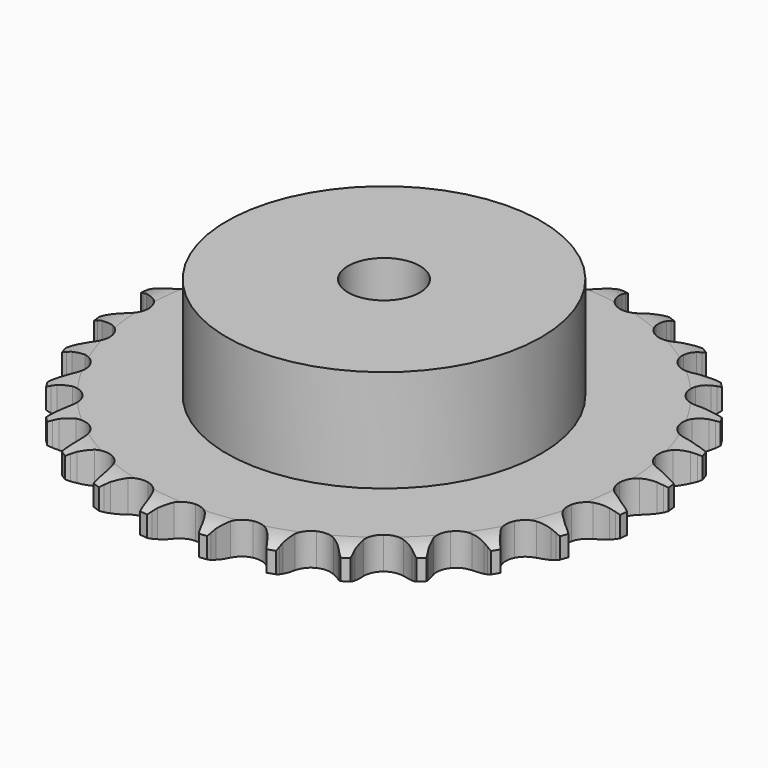
from build123d import *

# Parameters (mm, degrees)
PAD_DEPTH         = 7.2
SKETCH001_R       = 35
PAD001_DEPTH      = 30
SKETCH002_R       = 8
POCKET_DEPTH      = 0.001
POCKET_DEPTH_BACK = 30.001


with BuildPart() as part:
    # Sprocket → Pad (new body)
    with BuildSketch(Plane.XY):
        with BuildLine():
            ThreePointArc((-6.775463, 60.1339), (-5.959972, 59.077953), (-5.36144, 57.885557))
            Line((-5.36144, 57.885557), (-4.946783, 56.813337))
            ThreePointArc((-4.946783, 56.813337), (-4.287495, 55.408645), (-3.439129, 54.109378))
            ThreePointArc((-3.439129, 54.109378), (-1.92025, 52.850938), (0, 52.400042))
            ThreePointArc((0, 52.400042), (1.92025, 52.850938), (3.439129, 54.109378))
            ThreePointArc((3.439129, 54.109378), (4.287495, 55.408645), (4.946783, 56.813337))
            Line((4.946783, 56.813337), (5.36144, 57.885557))
            ThreePointArc((5.36144, 57.885557), (5.959972, 59.077953), (6.775463, 60.1339))
            ThreePointArc((6.775463, 60.1339), (7.335539, 58.922964), (7.653731, 57.627278))
            Line((7.653731, 57.627278), (7.8194, 56.489671))
            ThreePointArc((7.8194, 56.489671), (8.149585, 54.973492), (8.687567, 53.518021))
            ThreePointArc((8.687567, 53.518021), (9.888335, 51.95315), (11.660106, 51.086264))
            ThreePointArc((11.660106, 51.086264), (13.632545, 51.098559), (15.393372, 51.987465))
            Line((15.393372, 51.987465), (17.464914, 54.288146))
            ThreePointArc((17.464914, 54.288146), (17.774018, 54.77299), (18.107765, 55.241212))
            ThreePointArc((18.107765, 55.241212), (18.956624, 56.270527), (19.98664, 57.118535))
            ThreePointArc((19.98664, 57.118535), (20.263214, 55.813332), (20.285111, 54.479326))
            Line((20.285111, 54.479326), (20.193486, 53.333377))
            ThreePointArc((20.193486, 53.333377), (20.17801, 51.781739), (20.378632, 50.243047))
            ThreePointArc((20.378632, 50.243047), (21.201077, 48.450215), (22.735526, 47.210807))
            ThreePointArc((22.735526, 47.210807), (24.661248, 46.783884), (26.575727, 47.258683))
            Line((26.575727, 47.258683), (29.107281, 49.04072))
            ThreePointArc((29.107281, 49.04072), (29.516523, 49.444626), (29.946092, 49.826843))
            ThreePointArc((29.946092, 49.826843), (31.002712, 50.641462), (32.195603, 51.239009))
            ThreePointArc((32.195603, 51.239009), (32.174808, 49.904986), (31.899312, 48.599554))
            Line((31.899312, 48.599554), (31.554986, 47.502725))
            ThreePointArc((31.554986, 47.502725), (31.194626, 45.993433), (31.047827, 44.448677))
            ThreePointArc((31.047827, 44.448677), (31.450709, 42.517783), (32.670892, 40.968003))
            ThreePointArc((32.670892, 40.968003), (34.453332, 40.123271), (36.425465, 40.160154))
            Line((36.425465, 40.160154), (39.290087, 41.334187))
            ThreePointArc((39.290087, 41.334187), (39.778946, 41.636902), (40.282797, 41.913948))
            ThreePointArc((40.282797, 41.913948), (41.494195, 42.473022), (42.790144, 42.790144))
            ThreePointArc((42.790144, 42.790144), (42.473022, 41.494195), (41.913948, 40.282797))
            Line((41.913948, 40.282797), (41.334187, 39.290087))
            ThreePointArc((41.334187, 39.290087), (40.647014, 37.898824), (40.160154, 36.425465))
            ThreePointArc((40.160154, 36.425465), (40.123271, 34.453332), (40.968003, 32.670892))
            ThreePointArc((40.968003, 32.670892), (42.517783, 31.450709), (44.448677, 31.047827))
            Line((44.448677, 31.047827), (47.502725, 31.554986))
            ThreePointArc((47.502725, 31.554986), (48.046688, 31.741329), (48.599554, 31.899312))
            ThreePointArc((48.599554, 31.899312), (49.904986, 32.174808), (51.239009, 32.195603))
            ThreePointArc((51.239009, 32.195603), (50.641462, 31.002712), (49.826843, 29.946092))
            Line((49.826843, 29.946092), (49.04072, 29.107281))
            ThreePointArc((49.04072, 29.107281), (48.06119, 27.90381), (47.258683, 26.575727))
            ThreePointArc((47.258683, 26.575727), (46.783884, 24.661248), (47.210807, 22.735526))
            ThreePointArc((47.210807, 22.735526), (48.450215, 21.201077), (50.243047, 20.378632))
            Line((50.243047, 20.378632), (53.333377, 20.193486))
            ThreePointArc((53.333377, 20.193486), (53.905167, 20.254114), (54.479326, 20.285111))
            ThreePointArc((54.479326, 20.285111), (55.813332, 20.263214), (57.118535, 19.98664))
            ThreePointArc((57.118535, 19.98664), (56.270527, 18.956624), (55.241212, 18.107765))
            Line((55.241212, 18.107765), (54.288146, 17.464914))
            ThreePointArc((54.288146, 17.464914), (53.065377, 16.509582), (51.987465, 15.393372))
            ThreePointArc((51.987465, 15.393372), (51.098559, 13.632545), (51.086264, 11.660106))
            ThreePointArc((51.086264, 11.660106), (51.95315, 9.888335), (53.518021, 8.687567))
            Line((53.518021, 8.687567), (56.489671, 7.8194))
            ThreePointArc((56.489671, 7.8194), (57.060616, 7.751273), (57.627278, 7.653731))
            ThreePointArc((57.627278, 7.653731), (58.922964, 7.335539), (60.1339, 6.775463))
            ThreePointArc((60.1339, 6.775463), (59.077953, 5.959972), (57.885557, 5.36144))
            Line((57.885557, 5.36144), (56.813337, 4.946783))
            ThreePointArc((56.813337, 4.946783), (55.408645, 4.287495), (54.109378, 3.439129))
            ThreePointArc((54.109378, 3.439129), (52.850938, 1.92025), (52.400042, 0))
            ThreePointArc((52.400042, 0), (52.850938, -1.92025), (54.109378, -3.439129))
            Line((54.109378, -3.439129), (56.813337, -4.946783))
            ThreePointArc((56.813337, -4.946783), (57.354808, -5.140249), (57.885557, -5.36144))
            ThreePointArc((57.885557, -5.36144), (59.077953, -5.959972), (60.1339, -6.775463))
            ThreePointArc((60.1339, -6.775463), (58.922964, -7.335539), (57.627278, -7.653731))
            Line((57.627278, -7.653731), (56.489671, -7.8194))
            ThreePointArc((56.489671, -7.8194), (54.973492, -8.149585), (53.518021, -8.687567))
            ThreePointArc((53.518021, -8.687567), (51.95315, -9.888335), (51.086264, -11.660106))
            ThreePointArc((51.086264, -11.660106), (51.098559, -13.632545), (51.987465, -15.393372))
            Line((51.987465, -15.393372), (54.288146, -17.464914))
            ThreePointArc((54.288146, -17.464914), (54.77299, -17.774018), (55.241212, -18.107765))
            ThreePointArc((55.241212, -18.107765), (56.270527, -18.956624), (57.118535, -19.98664))
            ThreePointArc((57.118535, -19.98664), (55.813332, -20.263214), (54.479326, -20.285111))
            Line((54.479326, -20.285111), (53.333377, -20.193486))
            ThreePointArc((53.333377, -20.193486), (51.781739, -20.17801), (50.243047, -20.378632))
            ThreePointArc((50.243047, -20.378632), (48.450215, -21.201077), (47.210807, -22.735526))
            ThreePointArc((47.210807, -22.735526), (46.783884, -24.661248), (47.258683, -26.575727))
            Line((47.258683, -26.575727), (49.04072, -29.107281))
            ThreePointArc((49.04072, -29.107281), (49.444626, -29.516523), (49.826843, -29.946092))
            ThreePointArc((49.826843, -29.946092), (50.641462, -31.002712), (51.239009, -32.195603))
            ThreePointArc((51.239009, -32.195603), (49.904986, -32.174808), (48.599554, -31.899312))
            Line((48.599554, -31.899312), (47.502725, -31.554986))
            ThreePointArc((47.502725, -31.554986), (45.993433, -31.194626), (44.448677, -31.047827))
            ThreePointArc((44.448677, -31.047827), (42.517783, -31.450709), (40.968003, -32.670892))
            ThreePointArc((40.968003, -32.670892), (40.123271, -34.453332), (40.160154, -36.425465))
            Line((40.160154, -36.425465), (41.334187, -39.290087))
            ThreePointArc((41.334187, -39.290087), (41.636902, -39.778946), (41.913948, -40.282797))
            ThreePointArc((41.913948, -40.282797), (42.473022, -41.494195), (42.790144, -42.790144))
            ThreePointArc((42.790144, -42.790144), (41.494195, -42.473022), (40.282797, -41.913948))
            Line((40.282797, -41.913948), (39.290087, -41.334187))
            ThreePointArc((39.290087, -41.334187), (37.898824, -40.647014), (36.425465, -40.160154))
            ThreePointArc((36.425465, -40.160154), (34.453332, -40.123271), (32.670892, -40.968003))
            ThreePointArc((32.670892, -40.968003), (31.450709, -42.517783), (31.047827, -44.448677))
            Line((31.047827, -44.448677), (31.554986, -47.502725))
            ThreePointArc((31.554986, -47.502725), (31.741329, -48.046688), (31.899312, -48.599554))
            ThreePointArc((31.899312, -48.599554), (32.174808, -49.904986), (32.195603, -51.239009))
            ThreePointArc((32.195603, -51.239009), (31.002712, -50.641462), (29.946092, -49.826843))
            Line((29.946092, -49.826843), (29.107281, -49.04072))
            ThreePointArc((29.107281, -49.04072), (27.90381, -48.06119), (26.575727, -47.258683))
            ThreePointArc((26.575727, -47.258683), (24.661248, -46.783884), (22.735526, -47.210807))
            ThreePointArc((22.735526, -47.210807), (21.201077, -48.450215), (20.378632, -50.243047))
            Line((20.378632, -50.243047), (20.193486, -53.333377))
            ThreePointArc((20.193486, -53.333377), (20.254114, -53.905167), (20.285111, -54.479326))
            ThreePointArc((20.285111, -54.479326), (20.263214, -55.813332), (19.98664, -57.118535))
            ThreePointArc((19.98664, -57.118535), (18.956624, -56.270527), (18.107765, -55.241212))
            Line((18.107765, -55.241212), (17.464914, -54.288146))
            ThreePointArc((17.464914, -54.288146), (16.509582, -53.065377), (15.393372, -51.987465))
            ThreePointArc((15.393372, -51.987465), (13.632545, -51.098559), (11.660106, -51.086264))
            ThreePointArc((11.660106, -51.086264), (9.888335, -51.95315), (8.687567, -53.518021))
            Line((8.687567, -53.518021), (7.8194, -56.489671))
            ThreePointArc((7.8194, -56.489671), (7.751273, -57.060616), (7.653731, -57.627278))
            ThreePointArc((7.653731, -57.627278), (7.335539, -58.922964), (6.775463, -60.1339))
            ThreePointArc((6.775463, -60.1339), (5.959972, -59.077953), (5.36144, -57.885557))
            Line((5.36144, -57.885557), (4.946783, -56.813337))
            ThreePointArc((4.946783, -56.813337), (4.287495, -55.408645), (3.439129, -54.109378))
            ThreePointArc((3.439129, -54.109378), (1.92025, -52.850938), (0, -52.400042))
            ThreePointArc((0, -52.400042), (-1.92025, -52.850938), (-3.439129, -54.109378))
            Line((-3.439129, -54.109378), (-4.946783, -56.813337))
            ThreePointArc((-4.946783, -56.813337), (-5.140249, -57.354808), (-5.36144, -57.885557))
            ThreePointArc((-5.36144, -57.885557), (-5.959972, -59.077953), (-6.775463, -60.1339))
            ThreePointArc((-6.775463, -60.1339), (-7.335539, -58.922964), (-7.653731, -57.627278))
            Line((-7.653731, -57.627278), (-7.8194, -56.489671))
            ThreePointArc((-7.8194, -56.489671), (-8.149585, -54.973492), (-8.687567, -53.518021))
            ThreePointArc((-8.687567, -53.518021), (-9.888335, -51.95315), (-11.660106, -51.086264))
            ThreePointArc((-11.660106, -51.086264), (-13.632545, -51.098559), (-15.393372, -51.987465))
            Line((-15.393372, -51.987465), (-17.464914, -54.288146))
            ThreePointArc((-17.464914, -54.288146), (-17.774018, -54.77299), (-18.107765, -55.241212))
            ThreePointArc((-18.107765, -55.241212), (-18.956624, -56.270527), (-19.98664, -57.118535))
            ThreePointArc((-19.98664, -57.118535), (-20.263214, -55.813332), (-20.285111, -54.479326))
            Line((-20.285111, -54.479326), (-20.193486, -53.333377))
            ThreePointArc((-20.193486, -53.333377), (-20.17801, -51.781739), (-20.378632, -50.243047))
            ThreePointArc((-20.378632, -50.243047), (-21.201077, -48.450215), (-22.735526, -47.210807))
            ThreePointArc((-22.735526, -47.210807), (-24.661248, -46.783884), (-26.575727, -47.258683))
            Line((-26.575727, -47.258683), (-29.107281, -49.04072))
            ThreePointArc((-29.107281, -49.04072), (-29.516523, -49.444626), (-29.946092, -49.826843))
            ThreePointArc((-29.946092, -49.826843), (-31.002712, -50.641462), (-32.195603, -51.239009))
            ThreePointArc((-32.195603, -51.239009), (-32.174808, -49.904986), (-31.899312, -48.599554))
            Line((-31.899312, -48.599554), (-31.554986, -47.502725))
            ThreePointArc((-31.554986, -47.502725), (-31.194626, -45.993433), (-31.047827, -44.448677))
            ThreePointArc((-31.047827, -44.448677), (-31.450709, -42.517783), (-32.670892, -40.968003))
            ThreePointArc((-32.670892, -40.968003), (-34.453332, -40.123271), (-36.425465, -40.160154))
            Line((-36.425465, -40.160154), (-39.290087, -41.334187))
            ThreePointArc((-39.290087, -41.334187), (-39.778946, -41.636902), (-40.282797, -41.913948))
            ThreePointArc((-40.282797, -41.913948), (-41.494195, -42.473022), (-42.790144, -42.790144))
            ThreePointArc((-42.790144, -42.790144), (-42.473022, -41.494195), (-41.913948, -40.282797))
            Line((-41.913948, -40.282797), (-41.334187, -39.290087))
            ThreePointArc((-41.334187, -39.290087), (-40.647014, -37.898824), (-40.160154, -36.425465))
            ThreePointArc((-40.160154, -36.425465), (-40.123271, -34.453332), (-40.968003, -32.670892))
            ThreePointArc((-40.968003, -32.670892), (-42.517783, -31.450709), (-44.448677, -31.047827))
            Line((-44.448677, -31.047827), (-47.502725, -31.554986))
            ThreePointArc((-47.502725, -31.554986), (-48.046688, -31.741329), (-48.599554, -31.899312))
            ThreePointArc((-48.599554, -31.899312), (-49.904986, -32.174808), (-51.239009, -32.195603))
            ThreePointArc((-51.239009, -32.195603), (-50.641462, -31.002712), (-49.826843, -29.946092))
            Line((-49.826843, -29.946092), (-49.04072, -29.107281))
            ThreePointArc((-49.04072, -29.107281), (-48.06119, -27.90381), (-47.258683, -26.575727))
            ThreePointArc((-47.258683, -26.575727), (-46.783884, -24.661248), (-47.210807, -22.735526))
            ThreePointArc((-47.210807, -22.735526), (-48.450215, -21.201077), (-50.243047, -20.378632))
            Line((-50.243047, -20.378632), (-53.333377, -20.193486))
            ThreePointArc((-53.333377, -20.193486), (-53.905167, -20.254114), (-54.479326, -20.285111))
            ThreePointArc((-54.479326, -20.285111), (-55.813332, -20.263214), (-57.118535, -19.98664))
            ThreePointArc((-57.118535, -19.98664), (-56.270527, -18.956624), (-55.241212, -18.107765))
            Line((-55.241212, -18.107765), (-54.288146, -17.464914))
            ThreePointArc((-54.288146, -17.464914), (-53.065377, -16.509582), (-51.987465, -15.393372))
            ThreePointArc((-51.987465, -15.393372), (-51.098559, -13.632545), (-51.086264, -11.660106))
            ThreePointArc((-51.086264, -11.660106), (-51.95315, -9.888335), (-53.518021, -8.687567))
            Line((-53.518021, -8.687567), (-56.489671, -7.8194))
            ThreePointArc((-56.489671, -7.8194), (-57.060616, -7.751273), (-57.627278, -7.653731))
            ThreePointArc((-57.627278, -7.653731), (-58.922964, -7.335539), (-60.1339, -6.775463))
            ThreePointArc((-60.1339, -6.775463), (-59.077953, -5.959972), (-57.885557, -5.36144))
            Line((-57.885557, -5.36144), (-56.813337, -4.946783))
            ThreePointArc((-56.813337, -4.946783), (-55.408645, -4.287495), (-54.109378, -3.439129))
            ThreePointArc((-54.109378, -3.439129), (-52.850938, -1.92025), (-52.400042, 0))
            ThreePointArc((-52.400042, 0), (-52.850938, 1.92025), (-54.109378, 3.439129))
            Line((-54.109378, 3.439129), (-56.813337, 4.946783))
            ThreePointArc((-56.813337, 4.946783), (-57.354808, 5.140249), (-57.885557, 5.36144))
            ThreePointArc((-57.885557, 5.36144), (-59.077953, 5.959972), (-60.1339, 6.775463))
            ThreePointArc((-60.1339, 6.775463), (-58.922964, 7.335539), (-57.627278, 7.653731))
            Line((-57.627278, 7.653731), (-56.489671, 7.8194))
            ThreePointArc((-56.489671, 7.8194), (-54.973492, 8.149585), (-53.518021, 8.687567))
            ThreePointArc((-53.518021, 8.687567), (-51.95315, 9.888335), (-51.086264, 11.660106))
            ThreePointArc((-51.086264, 11.660106), (-51.098559, 13.632545), (-51.987465, 15.393372))
            Line((-51.987465, 15.393372), (-54.288146, 17.464914))
            ThreePointArc((-54.288146, 17.464914), (-54.77299, 17.774018), (-55.241212, 18.107765))
            ThreePointArc((-55.241212, 18.107765), (-56.270527, 18.956624), (-57.118535, 19.98664))
            ThreePointArc((-57.118535, 19.98664), (-55.813332, 20.263214), (-54.479326, 20.285111))
            Line((-54.479326, 20.285111), (-53.333377, 20.193486))
            ThreePointArc((-53.333377, 20.193486), (-51.781739, 20.17801), (-50.243047, 20.378632))
            ThreePointArc((-50.243047, 20.378632), (-48.450215, 21.201077), (-47.210807, 22.735526))
            ThreePointArc((-47.210807, 22.735526), (-46.783884, 24.661248), (-47.258683, 26.575727))
            Line((-47.258683, 26.575727), (-49.04072, 29.107281))
            ThreePointArc((-49.04072, 29.107281), (-49.444626, 29.516523), (-49.826843, 29.946092))
            ThreePointArc((-49.826843, 29.946092), (-50.641462, 31.002712), (-51.239009, 32.195603))
            ThreePointArc((-51.239009, 32.195603), (-49.904986, 32.174808), (-48.599554, 31.899312))
            Line((-48.599554, 31.899312), (-47.502725, 31.554986))
            ThreePointArc((-47.502725, 31.554986), (-45.993433, 31.194626), (-44.448677, 31.047827))
            ThreePointArc((-44.448677, 31.047827), (-42.517783, 31.450709), (-40.968003, 32.670892))
            ThreePointArc((-40.968003, 32.670892), (-40.123271, 34.453332), (-40.160154, 36.425465))
            Line((-40.160154, 36.425465), (-41.334187, 39.290087))
            ThreePointArc((-41.334187, 39.290087), (-41.636902, 39.778946), (-41.913948, 40.282797))
            ThreePointArc((-41.913948, 40.282797), (-42.473022, 41.494195), (-42.790144, 42.790144))
            ThreePointArc((-42.790144, 42.790144), (-41.494195, 42.473022), (-40.282797, 41.913948))
            Line((-40.282797, 41.913948), (-39.290087, 41.334187))
            ThreePointArc((-39.290087, 41.334187), (-37.898824, 40.647014), (-36.425465, 40.160154))
            ThreePointArc((-36.425465, 40.160154), (-34.453332, 40.123271), (-32.670892, 40.968003))
            ThreePointArc((-32.670892, 40.968003), (-31.450709, 42.517783), (-31.047827, 44.448677))
            Line((-31.047827, 44.448677), (-31.554986, 47.502725))
            ThreePointArc((-31.554986, 47.502725), (-31.741329, 48.046688), (-31.899312, 48.599554))
            ThreePointArc((-31.899312, 48.599554), (-32.174808, 49.904986), (-32.195603, 51.239009))
            ThreePointArc((-32.195603, 51.239009), (-31.002712, 50.641462), (-29.946092, 49.826843))
            Line((-29.946092, 49.826843), (-29.107281, 49.04072))
            ThreePointArc((-29.107281, 49.04072), (-27.90381, 48.06119), (-26.575727, 47.258683))
            ThreePointArc((-26.575727, 47.258683), (-24.661248, 46.783884), (-22.735526, 47.210807))
            ThreePointArc((-22.735526, 47.210807), (-21.201077, 48.450215), (-20.378632, 50.243047))
            Line((-20.378632, 50.243047), (-20.193486, 53.333377))
            ThreePointArc((-20.193486, 53.333377), (-20.254114, 53.905167), (-20.285111, 54.479326))
            ThreePointArc((-20.285111, 54.479326), (-20.263214, 55.813332), (-19.98664, 57.118535))
            ThreePointArc((-19.98664, 57.118535), (-18.956624, 56.270527), (-18.107765, 55.241212))
            Line((-18.107765, 55.241212), (-17.464914, 54.288146))
            ThreePointArc((-17.464914, 54.288146), (-16.509582, 53.065377), (-15.393372, 51.987465))
            ThreePointArc((-15.393372, 51.987465), (-13.632545, 51.098559), (-11.660106, 51.086264))
            ThreePointArc((-11.660106, 51.086264), (-9.888335, 51.95315), (-8.687567, 53.518021))
            Line((-8.687567, 53.518021), (-7.8194, 56.489671))
            ThreePointArc((-7.8194, 56.489671), (-7.751273, 57.060616), (-7.653731, 57.627278))
            ThreePointArc((-7.653731, 57.627278), (-7.335539, 58.922964), (-6.775463, 60.1339))
        make_face()
    extrude(amount=PAD_DEPTH)

    # Sketch → Groove (revolve, cut)
    with BuildSketch(Plane.XZ):
        with BuildLine():
            Line((53.333431, 0), (59, 0))
            Line((64.666569, 0), (59, 0))
            Line((64.666569, 7.2), (64.666569, 0))
            Line((59, 7.2), (64.666569, 7.2))
            Line((53.333431, 7.2), (59, 7.2))
            ThreePointArc((59, 5.9), (56.24032, 6.870833), (53.333431, 7.2))
            Line((59, 1.3), (59, 5.9))
            ThreePointArc((53.333431, 0), (56.24032, 0.329167), (59, 1.3))
        make_face()
    revolve(axis=Axis((0, 0, 0), (0, 0, 1)), mode=Mode.SUBTRACT)

    # Sketch001 → Pad001 (join)
    with BuildSketch(Plane.XY):
        Circle(SKETCH001_R)
    extrude(amount=PAD001_DEPTH)

    # Sketch002 → Pocket (cut, two sides)
    with BuildSketch(Plane.XY) as pocket_sk:
        Circle(SKETCH002_R)
    extrude(amount=-POCKET_DEPTH, mode=Mode.SUBTRACT)
    extrude(pocket_sk.sketch, amount=POCKET_DEPTH_BACK, mode=Mode.SUBTRACT)


solid = part.part
